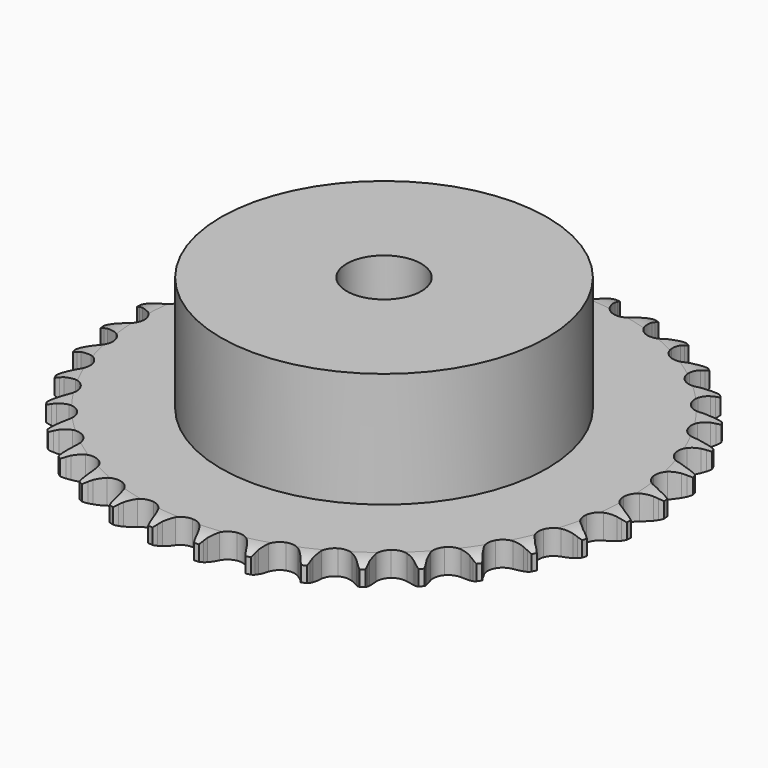
from build123d import *

# Parameters (mm, degrees)
PAD_DEPTH         = 5.3
SKETCH001_R       = 35
PAD001_DEPTH      = 30
SKETCH002_R       = 8
POCKET_DEPTH      = 0.001
POCKET_DEPTH_BACK = 30.001


with BuildPart() as part:
    # Sprocket → Pad (new body)
    with BuildSketch(Plane.XY):
        with BuildLine():
            ThreePointArc((-5.011548, 57.28225), (-4.445116, 56.509908), (-4.031769, 55.645904))
            Line((-4.031769, 55.645904), (-3.722016, 54.805027))
            ThreePointArc((-3.722016, 54.805027), (-3.231124, 53.719507), (-2.590036, 52.715349))
            ThreePointArc((-2.590036, 52.715349), (-1.449161, 51.758042), (0, 51.414584))
            ThreePointArc((0, 51.414584), (1.449161, 51.758042), (2.590036, 52.715349))
            ThreePointArc((2.590036, 52.715349), (3.231124, 53.719507), (3.722016, 54.805027))
            Line((3.722016, 54.805027), (4.031769, 55.645904))
            ThreePointArc((4.031769, 55.645904), (4.445116, 56.509908), (5.011548, 57.28225))
            ThreePointArc((5.011548, 57.28225), (5.435258, 56.423282), (5.692293, 55.500627))
            Line((5.692293, 55.500627), (5.851323, 54.618736))
            ThreePointArc((5.851323, 54.618736), (6.146258, 53.464466), (6.603237, 52.36424))
            ThreePointArc((6.603237, 52.36424), (7.560544, 51.223365), (8.928049, 50.633481))
            ThreePointArc((8.928049, 50.633481), (10.414835, 50.720077), (11.704612, 51.46473))
            Line((11.704612, 51.46473), (13.182263, 53.326094))
            ThreePointArc((13.182263, 53.326094), (13.397349, 53.719336), (13.633327, 54.100408))
            ThreePointArc((13.633327, 54.100408), (14.190427, 54.879509), (14.882369, 55.541758))
            ThreePointArc((14.882369, 55.541758), (15.150484, 54.622262), (15.243397, 53.668991))
            Line((15.243397, 53.668991), (15.246872, 52.772884))
            ThreePointArc((15.246872, 52.772884), (15.33689, 51.584934), (15.595874, 50.422069))
            ThreePointArc((15.595874, 50.422069), (16.340527, 49.132292), (17.584824, 48.313905))
            ThreePointArc((17.584824, 48.313905), (19.064059, 48.141008), (20.463549, 48.65038))
            Line((20.463549, 48.65038), (22.241974, 50.226875))
            ThreePointArc((22.241974, 50.226875), (22.522078, 50.576794), (22.820643, 50.911099))
            ThreePointArc((22.820643, 50.911099), (23.504569, 51.581624), (24.300998, 52.113658))
            ThreePointArc((24.300998, 52.113658), (24.405371, 51.161574), (24.331338, 50.206651))
            Line((24.331338, 50.206651), (24.179153, 49.323553))
            ThreePointArc((24.179153, 49.323553), (24.061518, 48.13802), (24.114638, 46.947849))
            ThreePointArc((24.114638, 46.947849), (24.62401, 45.54836), (25.707292, 44.526336))
            ThreePointArc((25.707292, 44.526336), (27.134031, 44.099198), (28.600711, 44.357814))
            Line((28.600711, 44.357814), (30.625874, 45.601537))
            ThreePointArc((30.625874, 45.601537), (30.962485, 45.897501), (31.314566, 46.174882))
            ThreePointArc((31.314566, 46.174882), (32.104537, 46.716458), (32.981253, 47.10211))
            ThreePointArc((32.981253, 47.10211), (32.918712, 46.146366), (32.679983, 45.218806))
            Line((32.679983, 45.218806), (32.376763, 44.375552))
            ThreePointArc((32.376763, 44.375552), (32.055049, 43.228457), (31.900691, 42.047143))
            ThreePointArc((31.900691, 42.047143), (32.159306, 40.580463), (33.048658, 39.385857))
            ThreePointArc((33.048658, 39.385857), (34.37955, 38.717457), (35.868856, 38.717457))
            Line((35.868856, 38.717457), (38.079222, 39.59062))
            ThreePointArc((38.079222, 39.59062), (38.462113, 39.823636), (38.857012, 40.035664))
            ThreePointArc((38.857012, 40.035664), (39.729025, 40.431836), (40.659389, 40.659389))
            ThreePointArc((40.659389, 40.659389), (40.431836, 39.729025), (40.035664, 38.857012))
            Line((40.035664, 38.857012), (39.59062, 38.079222))
            ThreePointArc((39.59062, 38.079222), (39.074603, 37.005418), (38.717457, 35.868856))
            ThreePointArc((38.717457, 35.868856), (38.717457, 34.37955), (39.385857, 33.048658))
            ThreePointArc((39.385857, 33.048658), (40.580463, 32.159306), (42.047143, 31.900691))
            Line((42.047143, 31.900691), (44.375552, 32.376763))
            ThreePointArc((44.375552, 32.376763), (44.793088, 32.539749), (45.218806, 32.679983))
            ThreePointArc((45.218806, 32.679983), (46.146366, 32.918712), (47.10211, 32.981253))
            ThreePointArc((47.10211, 32.981253), (46.716458, 32.104537), (46.174882, 31.314566))
            Line((46.174882, 31.314566), (45.601537, 30.625874))
            ThreePointArc((45.601537, 30.625874), (44.906895, 29.657989), (44.357814, 28.600711))
            ThreePointArc((44.357814, 28.600711), (44.099198, 27.134031), (44.526336, 25.707292))
            ThreePointArc((44.526336, 25.707292), (45.54836, 24.62401), (46.947849, 24.114638))
            Line((46.947849, 24.114638), (49.323553, 24.179153))
            ThreePointArc((49.323553, 24.179153), (49.763049, 24.267159), (50.206651, 24.331338))
            ThreePointArc((50.206651, 24.331338), (51.161574, 24.405371), (52.113658, 24.300998))
            ThreePointArc((52.113658, 24.300998), (51.581624, 23.504569), (50.911099, 22.820643))
            Line((50.911099, 22.820643), (50.226875, 22.241974))
            ThreePointArc((50.226875, 22.241974), (49.374715, 21.409417), (48.65038, 20.463549))
            ThreePointArc((48.65038, 20.463549), (48.141008, 19.064059), (48.313905, 17.584824))
            ThreePointArc((48.313905, 17.584824), (49.132292, 16.340527), (50.422069, 15.595874))
            Line((50.422069, 15.595874), (52.772884, 15.246872))
            ThreePointArc((52.772884, 15.246872), (53.220984, 15.257224), (53.668991, 15.243397))
            ThreePointArc((53.668991, 15.243397), (54.622262, 15.150484), (55.541758, 14.882369))
            ThreePointArc((55.541758, 14.882369), (54.879509, 14.190427), (54.100408, 13.633327))
            Line((54.100408, 13.633327), (53.326094, 13.182263))
            ThreePointArc((53.326094, 13.182263), (52.342308, 12.510331), (51.46473, 11.704612))
            ThreePointArc((51.46473, 11.704612), (50.720077, 10.414835), (50.633481, 8.928049))
            ThreePointArc((50.633481, 8.928049), (51.223365, 7.560544), (52.36424, 6.603237))
            Line((52.36424, 6.603237), (54.618736, 5.851323))
            ThreePointArc((54.618736, 5.851323), (55.061827, 5.783705), (55.500627, 5.692293))
            ThreePointArc((55.500627, 5.692293), (56.423282, 5.435258), (57.28225, 5.011548))
            ThreePointArc((57.28225, 5.011548), (56.509908, 4.445116), (55.645904, 4.031769))
            Line((55.645904, 4.031769), (54.805027, 3.722016))
            ThreePointArc((54.805027, 3.722016), (53.719507, 3.231124), (52.715349, 2.590036))
            ThreePointArc((52.715349, 2.590036), (51.758042, 1.449161), (51.414584, 0))
            ThreePointArc((51.414584, 0), (51.758042, -1.449161), (52.715349, -2.590036))
            Line((52.715349, -2.590036), (54.805027, -3.722016))
            ThreePointArc((54.805027, -3.722016), (55.229644, -3.865548), (55.645904, -4.031769))
            ThreePointArc((55.645904, -4.031769), (56.509908, -4.445116), (57.28225, -5.011548))
            ThreePointArc((57.28225, -5.011548), (56.423282, -5.435258), (55.500627, -5.692293))
            Line((55.500627, -5.692293), (54.618736, -5.851323))
            ThreePointArc((54.618736, -5.851323), (53.464466, -6.146258), (52.36424, -6.603237))
            ThreePointArc((52.36424, -6.603237), (51.223365, -7.560544), (50.633481, -8.928049))
            ThreePointArc((50.633481, -8.928049), (50.720077, -10.414835), (51.46473, -11.704612))
            Line((51.46473, -11.704612), (53.326094, -13.182263))
            ThreePointArc((53.326094, -13.182263), (53.719336, -13.397349), (54.100408, -13.633327))
            ThreePointArc((54.100408, -13.633327), (54.879509, -14.190427), (55.541758, -14.882369))
            ThreePointArc((55.541758, -14.882369), (54.622262, -15.150484), (53.668991, -15.243397))
            Line((53.668991, -15.243397), (52.772884, -15.246872))
            ThreePointArc((52.772884, -15.246872), (51.584934, -15.33689), (50.422069, -15.595874))
            ThreePointArc((50.422069, -15.595874), (49.132292, -16.340527), (48.313905, -17.584824))
            ThreePointArc((48.313905, -17.584824), (48.141008, -19.064059), (48.65038, -20.463549))
            Line((48.65038, -20.463549), (50.226875, -22.241974))
            ThreePointArc((50.226875, -22.241974), (50.576794, -22.522078), (50.911099, -22.820643))
            ThreePointArc((50.911099, -22.820643), (51.581624, -23.504569), (52.113658, -24.300998))
            ThreePointArc((52.113658, -24.300998), (51.161574, -24.405371), (50.206651, -24.331338))
            Line((50.206651, -24.331338), (49.323553, -24.179153))
            ThreePointArc((49.323553, -24.179153), (48.13802, -24.061518), (46.947849, -24.114638))
            ThreePointArc((46.947849, -24.114638), (45.54836, -24.62401), (44.526336, -25.707292))
            ThreePointArc((44.526336, -25.707292), (44.099198, -27.134031), (44.357814, -28.600711))
            Line((44.357814, -28.600711), (45.601537, -30.625874))
            ThreePointArc((45.601537, -30.625874), (45.897501, -30.962485), (46.174882, -31.314566))
            ThreePointArc((46.174882, -31.314566), (46.716458, -32.104537), (47.10211, -32.981253))
            ThreePointArc((47.10211, -32.981253), (46.146366, -32.918712), (45.218806, -32.679983))
            Line((45.218806, -32.679983), (44.375552, -32.376763))
            ThreePointArc((44.375552, -32.376763), (43.228457, -32.055049), (42.047143, -31.900691))
            ThreePointArc((42.047143, -31.900691), (40.580463, -32.159306), (39.385857, -33.048658))
            ThreePointArc((39.385857, -33.048658), (38.717457, -34.37955), (38.717457, -35.868856))
            Line((38.717457, -35.868856), (39.59062, -38.079222))
            ThreePointArc((39.59062, -38.079222), (39.823636, -38.462113), (40.035664, -38.857012))
            ThreePointArc((40.035664, -38.857012), (40.431836, -39.729025), (40.659389, -40.659389))
            ThreePointArc((40.659389, -40.659389), (39.729025, -40.431836), (38.857012, -40.035664))
            Line((38.857012, -40.035664), (38.079222, -39.59062))
            ThreePointArc((38.079222, -39.59062), (37.005418, -39.074603), (35.868856, -38.717457))
            ThreePointArc((35.868856, -38.717457), (34.37955, -38.717457), (33.048658, -39.385857))
            ThreePointArc((33.048658, -39.385857), (32.159306, -40.580463), (31.900691, -42.047143))
            Line((31.900691, -42.047143), (32.376763, -44.375552))
            ThreePointArc((32.376763, -44.375552), (32.539749, -44.793088), (32.679983, -45.218806))
            ThreePointArc((32.679983, -45.218806), (32.918712, -46.146366), (32.981253, -47.10211))
            ThreePointArc((32.981253, -47.10211), (32.104537, -46.716458), (31.314566, -46.174882))
            Line((31.314566, -46.174882), (30.625874, -45.601537))
            ThreePointArc((30.625874, -45.601537), (29.657989, -44.906895), (28.600711, -44.357814))
            ThreePointArc((28.600711, -44.357814), (27.134031, -44.099198), (25.707292, -44.526336))
            ThreePointArc((25.707292, -44.526336), (24.62401, -45.54836), (24.114638, -46.947849))
            Line((24.114638, -46.947849), (24.179153, -49.323553))
            ThreePointArc((24.179153, -49.323553), (24.267159, -49.763049), (24.331338, -50.206651))
            ThreePointArc((24.331338, -50.206651), (24.405371, -51.161574), (24.300998, -52.113658))
            ThreePointArc((24.300998, -52.113658), (23.504569, -51.581624), (22.820643, -50.911099))
            Line((22.820643, -50.911099), (22.241974, -50.226875))
            ThreePointArc((22.241974, -50.226875), (21.409417, -49.374715), (20.463549, -48.65038))
            ThreePointArc((20.463549, -48.65038), (19.064059, -48.141008), (17.584824, -48.313905))
            ThreePointArc((17.584824, -48.313905), (16.340527, -49.132292), (15.595874, -50.422069))
            Line((15.595874, -50.422069), (15.246872, -52.772884))
            ThreePointArc((15.246872, -52.772884), (15.257224, -53.220984), (15.243397, -53.668991))
            ThreePointArc((15.243397, -53.668991), (15.150484, -54.622262), (14.882369, -55.541758))
            ThreePointArc((14.882369, -55.541758), (14.190427, -54.879509), (13.633327, -54.100408))
            Line((13.633327, -54.100408), (13.182263, -53.326094))
            ThreePointArc((13.182263, -53.326094), (12.510331, -52.342308), (11.704612, -51.46473))
            ThreePointArc((11.704612, -51.46473), (10.414835, -50.720077), (8.928049, -50.633481))
            ThreePointArc((8.928049, -50.633481), (7.560544, -51.223365), (6.603237, -52.36424))
            Line((6.603237, -52.36424), (5.851323, -54.618736))
            ThreePointArc((5.851323, -54.618736), (5.783705, -55.061827), (5.692293, -55.500627))
            ThreePointArc((5.692293, -55.500627), (5.435258, -56.423282), (5.011548, -57.28225))
            ThreePointArc((5.011548, -57.28225), (4.445116, -56.509908), (4.031769, -55.645904))
            Line((4.031769, -55.645904), (3.722016, -54.805027))
            ThreePointArc((3.722016, -54.805027), (3.231124, -53.719507), (2.590036, -52.715349))
            ThreePointArc((2.590036, -52.715349), (1.449161, -51.758042), (0, -51.414584))
            ThreePointArc((0, -51.414584), (-1.449161, -51.758042), (-2.590036, -52.715349))
            Line((-2.590036, -52.715349), (-3.722016, -54.805027))
            ThreePointArc((-3.722016, -54.805027), (-3.865548, -55.229644), (-4.031769, -55.645904))
            ThreePointArc((-4.031769, -55.645904), (-4.445116, -56.509908), (-5.011548, -57.28225))
            ThreePointArc((-5.011548, -57.28225), (-5.435258, -56.423282), (-5.692293, -55.500627))
            Line((-5.692293, -55.500627), (-5.851323, -54.618736))
            ThreePointArc((-5.851323, -54.618736), (-6.146258, -53.464466), (-6.603237, -52.36424))
            ThreePointArc((-6.603237, -52.36424), (-7.560544, -51.223365), (-8.928049, -50.633481))
            ThreePointArc((-8.928049, -50.633481), (-10.414835, -50.720077), (-11.704612, -51.46473))
            Line((-11.704612, -51.46473), (-13.182263, -53.326094))
            ThreePointArc((-13.182263, -53.326094), (-13.397349, -53.719336), (-13.633327, -54.100408))
            ThreePointArc((-13.633327, -54.100408), (-14.190427, -54.879509), (-14.882369, -55.541758))
            ThreePointArc((-14.882369, -55.541758), (-15.150484, -54.622262), (-15.243397, -53.668991))
            Line((-15.243397, -53.668991), (-15.246872, -52.772884))
            ThreePointArc((-15.246872, -52.772884), (-15.33689, -51.584934), (-15.595874, -50.422069))
            ThreePointArc((-15.595874, -50.422069), (-16.340527, -49.132292), (-17.584824, -48.313905))
            ThreePointArc((-17.584824, -48.313905), (-19.064059, -48.141008), (-20.463549, -48.65038))
            Line((-20.463549, -48.65038), (-22.241974, -50.226875))
            ThreePointArc((-22.241974, -50.226875), (-22.522078, -50.576794), (-22.820643, -50.911099))
            ThreePointArc((-22.820643, -50.911099), (-23.504569, -51.581624), (-24.300998, -52.113658))
            ThreePointArc((-24.300998, -52.113658), (-24.405371, -51.161574), (-24.331338, -50.206651))
            Line((-24.331338, -50.206651), (-24.179153, -49.323553))
            ThreePointArc((-24.179153, -49.323553), (-24.061518, -48.13802), (-24.114638, -46.947849))
            ThreePointArc((-24.114638, -46.947849), (-24.62401, -45.54836), (-25.707292, -44.526336))
            ThreePointArc((-25.707292, -44.526336), (-27.134031, -44.099198), (-28.600711, -44.357814))
            Line((-28.600711, -44.357814), (-30.625874, -45.601537))
            ThreePointArc((-30.625874, -45.601537), (-30.962485, -45.897501), (-31.314566, -46.174882))
            ThreePointArc((-31.314566, -46.174882), (-32.104537, -46.716458), (-32.981253, -47.10211))
            ThreePointArc((-32.981253, -47.10211), (-32.918712, -46.146366), (-32.679983, -45.218806))
            Line((-32.679983, -45.218806), (-32.376763, -44.375552))
            ThreePointArc((-32.376763, -44.375552), (-32.055049, -43.228457), (-31.900691, -42.047143))
            ThreePointArc((-31.900691, -42.047143), (-32.159306, -40.580463), (-33.048658, -39.385857))
            ThreePointArc((-33.048658, -39.385857), (-34.37955, -38.717457), (-35.868856, -38.717457))
            Line((-35.868856, -38.717457), (-38.079222, -39.59062))
            ThreePointArc((-38.079222, -39.59062), (-38.462113, -39.823636), (-38.857012, -40.035664))
            ThreePointArc((-38.857012, -40.035664), (-39.729025, -40.431836), (-40.659389, -40.659389))
            ThreePointArc((-40.659389, -40.659389), (-40.431836, -39.729025), (-40.035664, -38.857012))
            Line((-40.035664, -38.857012), (-39.59062, -38.079222))
            ThreePointArc((-39.59062, -38.079222), (-39.074603, -37.005418), (-38.717457, -35.868856))
            ThreePointArc((-38.717457, -35.868856), (-38.717457, -34.37955), (-39.385857, -33.048658))
            ThreePointArc((-39.385857, -33.048658), (-40.580463, -32.159306), (-42.047143, -31.900691))
            Line((-42.047143, -31.900691), (-44.375552, -32.376763))
            ThreePointArc((-44.375552, -32.376763), (-44.793088, -32.539749), (-45.218806, -32.679983))
            ThreePointArc((-45.218806, -32.679983), (-46.146366, -32.918712), (-47.10211, -32.981253))
            ThreePointArc((-47.10211, -32.981253), (-46.716458, -32.104537), (-46.174882, -31.314566))
            Line((-46.174882, -31.314566), (-45.601537, -30.625874))
            ThreePointArc((-45.601537, -30.625874), (-44.906895, -29.657989), (-44.357814, -28.600711))
            ThreePointArc((-44.357814, -28.600711), (-44.099198, -27.134031), (-44.526336, -25.707292))
            ThreePointArc((-44.526336, -25.707292), (-45.54836, -24.62401), (-46.947849, -24.114638))
            Line((-46.947849, -24.114638), (-49.323553, -24.179153))
            ThreePointArc((-49.323553, -24.179153), (-49.763049, -24.267159), (-50.206651, -24.331338))
            ThreePointArc((-50.206651, -24.331338), (-51.161574, -24.405371), (-52.113658, -24.300998))
            ThreePointArc((-52.113658, -24.300998), (-51.581624, -23.504569), (-50.911099, -22.820643))
            Line((-50.911099, -22.820643), (-50.226875, -22.241974))
            ThreePointArc((-50.226875, -22.241974), (-49.374715, -21.409417), (-48.65038, -20.463549))
            ThreePointArc((-48.65038, -20.463549), (-48.141008, -19.064059), (-48.313905, -17.584824))
            ThreePointArc((-48.313905, -17.584824), (-49.132292, -16.340527), (-50.422069, -15.595874))
            Line((-50.422069, -15.595874), (-52.772884, -15.246872))
            ThreePointArc((-52.772884, -15.246872), (-53.220984, -15.257224), (-53.668991, -15.243397))
            ThreePointArc((-53.668991, -15.243397), (-54.622262, -15.150484), (-55.541758, -14.882369))
            ThreePointArc((-55.541758, -14.882369), (-54.879509, -14.190427), (-54.100408, -13.633327))
            Line((-54.100408, -13.633327), (-53.326094, -13.182263))
            ThreePointArc((-53.326094, -13.182263), (-52.342308, -12.510331), (-51.46473, -11.704612))
            ThreePointArc((-51.46473, -11.704612), (-50.720077, -10.414835), (-50.633481, -8.928049))
            ThreePointArc((-50.633481, -8.928049), (-51.223365, -7.560544), (-52.36424, -6.603237))
            Line((-52.36424, -6.603237), (-54.618736, -5.851323))
            ThreePointArc((-54.618736, -5.851323), (-55.061827, -5.783705), (-55.500627, -5.692293))
            ThreePointArc((-55.500627, -5.692293), (-56.423282, -5.435258), (-57.28225, -5.011548))
            ThreePointArc((-57.28225, -5.011548), (-56.509908, -4.445116), (-55.645904, -4.031769))
            Line((-55.645904, -4.031769), (-54.805027, -3.722016))
            ThreePointArc((-54.805027, -3.722016), (-53.719507, -3.231124), (-52.715349, -2.590036))
            ThreePointArc((-52.715349, -2.590036), (-51.758042, -1.449161), (-51.414584, 0))
            ThreePointArc((-51.414584, 0), (-51.758042, 1.449161), (-52.715349, 2.590036))
            Line((-52.715349, 2.590036), (-54.805027, 3.722016))
            ThreePointArc((-54.805027, 3.722016), (-55.229644, 3.865548), (-55.645904, 4.031769))
            ThreePointArc((-55.645904, 4.031769), (-56.509908, 4.445116), (-57.28225, 5.011548))
            ThreePointArc((-57.28225, 5.011548), (-56.423282, 5.435258), (-55.500627, 5.692293))
            Line((-55.500627, 5.692293), (-54.618736, 5.851323))
            ThreePointArc((-54.618736, 5.851323), (-53.464466, 6.146258), (-52.36424, 6.603237))
            ThreePointArc((-52.36424, 6.603237), (-51.223365, 7.560544), (-50.633481, 8.928049))
            ThreePointArc((-50.633481, 8.928049), (-50.720077, 10.414835), (-51.46473, 11.704612))
            Line((-51.46473, 11.704612), (-53.326094, 13.182263))
            ThreePointArc((-53.326094, 13.182263), (-53.719336, 13.397349), (-54.100408, 13.633327))
            ThreePointArc((-54.100408, 13.633327), (-54.879509, 14.190427), (-55.541758, 14.882369))
            ThreePointArc((-55.541758, 14.882369), (-54.622262, 15.150484), (-53.668991, 15.243397))
            Line((-53.668991, 15.243397), (-52.772884, 15.246872))
            ThreePointArc((-52.772884, 15.246872), (-51.584934, 15.33689), (-50.422069, 15.595874))
            ThreePointArc((-50.422069, 15.595874), (-49.132292, 16.340527), (-48.313905, 17.584824))
            ThreePointArc((-48.313905, 17.584824), (-48.141008, 19.064059), (-48.65038, 20.463549))
            Line((-48.65038, 20.463549), (-50.226875, 22.241974))
            ThreePointArc((-50.226875, 22.241974), (-50.576794, 22.522078), (-50.911099, 22.820643))
            ThreePointArc((-50.911099, 22.820643), (-51.581624, 23.504569), (-52.113658, 24.300998))
            ThreePointArc((-52.113658, 24.300998), (-51.161574, 24.405371), (-50.206651, 24.331338))
            Line((-50.206651, 24.331338), (-49.323553, 24.179153))
            ThreePointArc((-49.323553, 24.179153), (-48.13802, 24.061518), (-46.947849, 24.114638))
            ThreePointArc((-46.947849, 24.114638), (-45.54836, 24.62401), (-44.526336, 25.707292))
            ThreePointArc((-44.526336, 25.707292), (-44.099198, 27.134031), (-44.357814, 28.600711))
            Line((-44.357814, 28.600711), (-45.601537, 30.625874))
            ThreePointArc((-45.601537, 30.625874), (-45.897501, 30.962485), (-46.174882, 31.314566))
            ThreePointArc((-46.174882, 31.314566), (-46.716458, 32.104537), (-47.10211, 32.981253))
            ThreePointArc((-47.10211, 32.981253), (-46.146366, 32.918712), (-45.218806, 32.679983))
            Line((-45.218806, 32.679983), (-44.375552, 32.376763))
            ThreePointArc((-44.375552, 32.376763), (-43.228457, 32.055049), (-42.047143, 31.900691))
            ThreePointArc((-42.047143, 31.900691), (-40.580463, 32.159306), (-39.385857, 33.048658))
            ThreePointArc((-39.385857, 33.048658), (-38.717457, 34.37955), (-38.717457, 35.868856))
            Line((-38.717457, 35.868856), (-39.59062, 38.079222))
            ThreePointArc((-39.59062, 38.079222), (-39.823636, 38.462113), (-40.035664, 38.857012))
            ThreePointArc((-40.035664, 38.857012), (-40.431836, 39.729025), (-40.659389, 40.659389))
            ThreePointArc((-40.659389, 40.659389), (-39.729025, 40.431836), (-38.857012, 40.035664))
            Line((-38.857012, 40.035664), (-38.079222, 39.59062))
            ThreePointArc((-38.079222, 39.59062), (-37.005418, 39.074603), (-35.868856, 38.717457))
            ThreePointArc((-35.868856, 38.717457), (-34.37955, 38.717457), (-33.048658, 39.385857))
            ThreePointArc((-33.048658, 39.385857), (-32.159306, 40.580463), (-31.900691, 42.047143))
            Line((-31.900691, 42.047143), (-32.376763, 44.375552))
            ThreePointArc((-32.376763, 44.375552), (-32.539749, 44.793088), (-32.679983, 45.218806))
            ThreePointArc((-32.679983, 45.218806), (-32.918712, 46.146366), (-32.981253, 47.10211))
            ThreePointArc((-32.981253, 47.10211), (-32.104537, 46.716458), (-31.314566, 46.174882))
            Line((-31.314566, 46.174882), (-30.625874, 45.601537))
            ThreePointArc((-30.625874, 45.601537), (-29.657989, 44.906895), (-28.600711, 44.357814))
            ThreePointArc((-28.600711, 44.357814), (-27.134031, 44.099198), (-25.707292, 44.526336))
            ThreePointArc((-25.707292, 44.526336), (-24.62401, 45.54836), (-24.114638, 46.947849))
            Line((-24.114638, 46.947849), (-24.179153, 49.323553))
            ThreePointArc((-24.179153, 49.323553), (-24.267159, 49.763049), (-24.331338, 50.206651))
            ThreePointArc((-24.331338, 50.206651), (-24.405371, 51.161574), (-24.300998, 52.113658))
            ThreePointArc((-24.300998, 52.113658), (-23.504569, 51.581624), (-22.820643, 50.911099))
            Line((-22.820643, 50.911099), (-22.241974, 50.226875))
            ThreePointArc((-22.241974, 50.226875), (-21.409417, 49.374715), (-20.463549, 48.65038))
            ThreePointArc((-20.463549, 48.65038), (-19.064059, 48.141008), (-17.584824, 48.313905))
            ThreePointArc((-17.584824, 48.313905), (-16.340527, 49.132292), (-15.595874, 50.422069))
            Line((-15.595874, 50.422069), (-15.246872, 52.772884))
            ThreePointArc((-15.246872, 52.772884), (-15.257224, 53.220984), (-15.243397, 53.668991))
            ThreePointArc((-15.243397, 53.668991), (-15.150484, 54.622262), (-14.882369, 55.541758))
            ThreePointArc((-14.882369, 55.541758), (-14.190427, 54.879509), (-13.633327, 54.100408))
            Line((-13.633327, 54.100408), (-13.182263, 53.326094))
            ThreePointArc((-13.182263, 53.326094), (-12.510331, 52.342308), (-11.704612, 51.46473))
            ThreePointArc((-11.704612, 51.46473), (-10.414835, 50.720077), (-8.928049, 50.633481))
            ThreePointArc((-8.928049, 50.633481), (-7.560544, 51.223365), (-6.603237, 52.36424))
            Line((-6.603237, 52.36424), (-5.851323, 54.618736))
            ThreePointArc((-5.851323, 54.618736), (-5.783705, 55.061827), (-5.692293, 55.500627))
            ThreePointArc((-5.692293, 55.500627), (-5.435258, 56.423282), (-5.011548, 57.28225))
        make_face()
    extrude(amount=PAD_DEPTH)

    # Sketch → Groove (revolve, cut)
    with BuildSketch(Plane.XZ):
        with BuildLine():
            Line((52.341101, 0), (56.7, 0))
            Line((61.058899, 0), (56.7, 0))
            Line((61.058899, 5.3), (61.058899, 0))
            Line((56.7, 5.3), (61.058899, 5.3))
            Line((52.341101, 5.3), (56.7, 5.3))
            ThreePointArc((56.7, 4.3), (54.577169, 5.046794), (52.341101, 5.3))
            Line((56.7, 1), (56.7, 4.3))
            ThreePointArc((52.341101, 0), (54.577169, 0.253206), (56.7, 1))
        make_face()
    revolve(axis=Axis((0, 0, 0), (0, 0, 1)), mode=Mode.SUBTRACT)

    # Sketch001 → Pad001 (join)
    with BuildSketch(Plane.XY):
        Circle(SKETCH001_R)
    extrude(amount=PAD001_DEPTH)

    # Sketch002 → Pocket (cut, two sides)
    with BuildSketch(Plane.XY) as pocket_sk:
        Circle(SKETCH002_R)
    extrude(amount=-POCKET_DEPTH, mode=Mode.SUBTRACT)
    extrude(pocket_sk.sketch, amount=POCKET_DEPTH_BACK, mode=Mode.SUBTRACT)


solid = part.part
